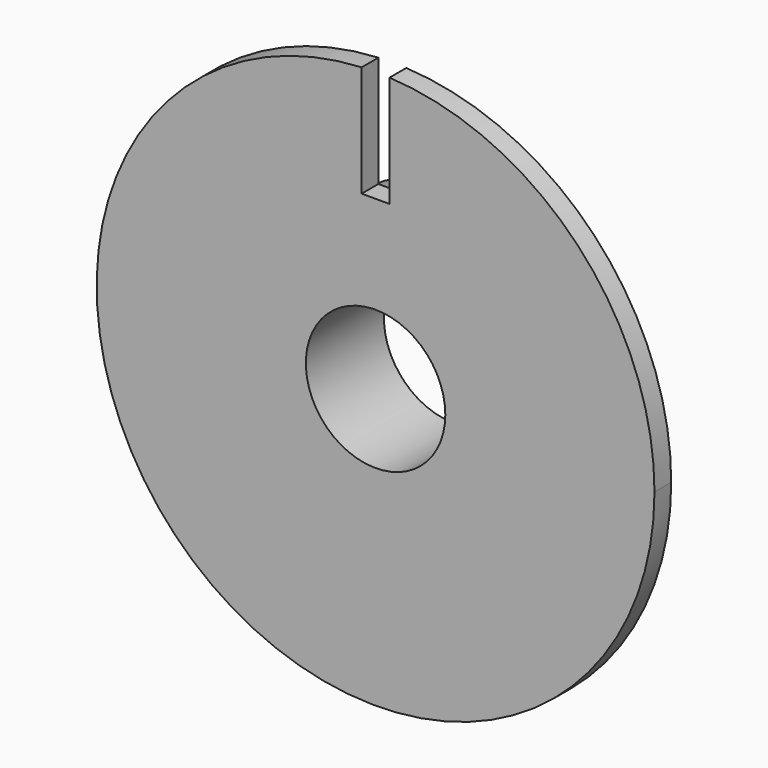
from build123d import *

# Parameters (mm, degrees)
F0_R     = 10
F0_R_2   = 5
F1_DEPTH = 5.5
F2_R     = 20
F2_R_2   = 5
F3_DEPTH = 1.5
F4_W     = 2
F4_H     = 10
F5_DEPTH = 1.501


with BuildPart() as f1:
    # F0 (on Front) → F1 (new body)
    with BuildSketch(Plane.XZ):
        Circle(F0_R)
        Circle(F0_R_2, mode=Mode.SUBTRACT)
    extrude(amount=-F1_DEPTH)

    # F2 (on Front) → F3 (join)
    with BuildSketch(Plane.XZ):
        Circle(F2_R)
        Circle(F2_R_2, mode=Mode.SUBTRACT)
    extrude(amount=F3_DEPTH)

    # F4 (on Front) → F5 (cut, through all)
    with BuildSketch(Plane.XZ):
        with Locations((0, 17)):
            Rectangle(F4_W, F4_H)
    extrude(amount=F5_DEPTH, mode=Mode.SUBTRACT)


solid = f1.part
